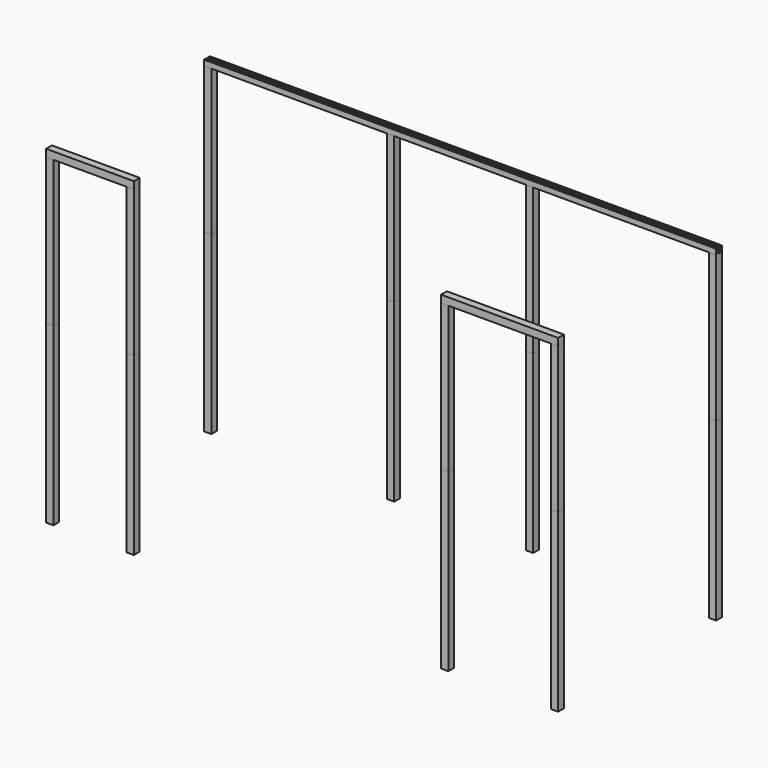
from build123d import *

# Parameters (mm, degrees)
F0_W     = 152.4
F0_H     = 152.4
F1_DEPTH = 3048
F2_DEPTH = 3657.6
F3_W     = 152.4
F3_H     = 152.4
F4_DEPTH = 1828.8
F5_W     = 152.4
F5_H     = 152.4
F6_DEPTH = 2438.4
F3_W_2   = 50.8
F3_H_2   = 114.3
F3_H_3   = 114.856805
F7_DEPTH = 10668


with BuildPart() as f1:
    # F0 (on Top) → F1 (new body)
    with BuildSketch(Plane.XY):
        with Locations((-76.2, 4053.859329)):
            Rectangle(F0_W, F0_H)
        with Locations((3733.8, 4053.859329)):
            Rectangle(F0_W, F0_H)
        with Locations((6629.4, 4053.859329)):
            Rectangle(F0_W, F0_H)
        with Locations((-76.2, -60.940671)):
            Rectangle(F0_W, F0_H)
        with Locations((1600.2, -60.940671)):
            Rectangle(F0_W, F0_H)
        with Locations((8153.4, -60.940671)):
            Rectangle(F0_W, F0_H)
        with Locations((10439.4, 4053.859329)):
            Rectangle(F0_W, F0_H)
        with Locations((10439.4, -60.940671)):
            Rectangle(F0_W, F0_H)
    extrude(amount=F1_DEPTH)


with BuildPart() as f2:
    # F0 (on Top) → F2 (new body)
    with BuildSketch(Plane.XY):
        with Locations((-76.2, 4053.859329)):
            Rectangle(F0_W, F0_H)
        with Locations((3733.8, 4053.859329)):
            Rectangle(F0_W, F0_H)
        with Locations((6629.4, 4053.859329)):
            Rectangle(F0_W, F0_H)
        with Locations((-76.2, -60.940671)):
            Rectangle(F0_W, F0_H)
        with Locations((1600.2, -60.940671)):
            Rectangle(F0_W, F0_H)
        with Locations((8153.4, -60.940671)):
            Rectangle(F0_W, F0_H)
        with Locations((10439.4, 4053.859329)):
            Rectangle(F0_W, F0_H)
        with Locations((10439.4, -60.940671)):
            Rectangle(F0_W, F0_H)
    extrude(amount=-F2_DEPTH)


with BuildPart() as f4:
    # F3 (on face) → F4 (new body, through all)
    with BuildSketch(Plane(origin=(-152.4, 0, 0), x_dir=(0, -1, 0), z_dir=(-1, 0, 0))):
        with Locations((60.940671, 3124.2)):
            Rectangle(F3_W, F3_H)
    extrude(amount=-F4_DEPTH)


with BuildPart() as f6:
    # F5 (on face) → F6 (new body, through all)
    with BuildSketch(Plane.YZ.offset(10515.6)):
        with Locations((-60.940671, 3124.2)):
            Rectangle(F5_W, F5_H)
    extrude(amount=-F6_DEPTH)


with BuildPart() as f7:
    # F3 (on face) → F7 (new body, through all)
    with BuildSketch(Plane(origin=(-152.4, 0, 0), x_dir=(0, -1, 0), z_dir=(-1, 0, 0))):
        with Locations((-4104.230089, 3105.706805)):
            Rectangle(F3_W_2, F3_H_2)
        with Locations((-4003.059329, 3105.428402)):
            Rectangle(F3_W_2, F3_H_3)
    extrude(amount=-F7_DEPTH)


solid = Compound([f1.part, f2.part, f4.part, f6.part, f7.part])
